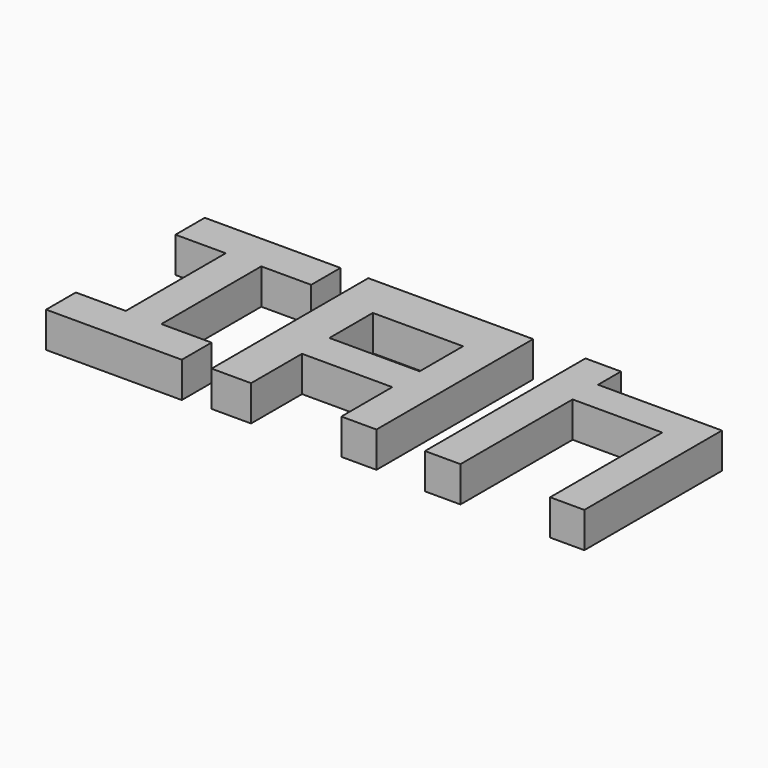
from build123d import *

# Parameters (mm, degrees)
F0_W     = 12.7005800605
F0_H     = 10.2500505745
F0_H_2   = 11.3675412722
F0_H_3   = 50.1337680034
F0_W_2   = 12.241974473
F1_DEPTH = 12.7
F0_W_3   = 14.1233932227
F0_H_4   = 12.2422706336
F0_W_4   = 12.5713734888
F0_H_5   = 22.7828882635
F0_W_5   = 32.2820437141
F0_W_6   = 12.7265676856
F0_H_6   = 44.66532683


with BuildPart() as f1:
    # F0 (on Top) → F1 (new body)
    with BuildSketch(Plane.XY):
        with Locations((42.8348556161, 22.4678125232)):
            Rectangle(F0_W, F0_H)
        with Locations((42.8348556161, 11.6590165999)):
            Rectangle(F0_W, F0_H_2)
        Polygon((93.489408493, 17.342787236), (49.1851456463, 17.342787236), (49.1851456463, 5.9752459638), (81.24743402, 5.9752459638), (93.489408493, 5.9752459638), align=None)
        with Locations((42.8348556161, -19.0916380379)):
            Rectangle(F0_W, F0_H_3)
        with Locations((87.3684212565, -19.0916380379)):
            Rectangle(F0_W_2, F0_H_3)
    extrude(amount=F1_DEPTH)


with BuildPart() as f1b:
    # F0 (on Top) → F1, piece 2 (new body)
    with BuildSketch(Plane.XY):
        Polygon((17.7800580859, 27.5928378105), (-41.1967523396, 27.5928378105), (-41.1967523396, -7.4323210865), (-27.0733591169, -7.4323210865), (-27.0733591169, 11.9729917496), (5.2086845972, 11.9729917496), (5.2086845972, -7.4323210865), (17.7800580859, -7.4323210865), align=None)
        with Locations((-34.1350557283, -13.5534564033)):
            Rectangle(F0_W_3, F0_H_4)
        with Locations((11.4943713415, -13.5534564033)):
            Rectangle(F0_W_4, F0_H_4)
        with Locations((-34.1350557283, -31.0660358518)):
            Rectangle(F0_W_3, F0_H_5)
        with Locations((-10.9323372599, -13.5534564033)):
            Rectangle(F0_W_5, F0_H_4)
        with Locations((11.4943713415, -31.0660358518)):
            Rectangle(F0_W_4, F0_H_5)
    extrude(amount=F1_DEPTH)


with BuildPart() as f1c:
    # F0 (on Top) → F1, piece 3 (new body)
    with BuildSketch(Plane.XY):
        Polygon((-51.1251911521, 27.5928378105), (-99.6664389968, 27.5928378105), (-99.6664389968, 14.4885461777), (-81.7045047879, 14.4885461777), (-68.9779371023, 14.4885461777), (-51.1251911521, 14.4885461777), align=None)
        with Locations((-75.3412209451, -7.8441172373)):
            Rectangle(F0_W_6, F0_H_6)
        Polygon((-68.9779371023, -30.1767806523), (-81.7045047879, -30.1767806523), (-99.5741523802, -30.1767806523), (-99.5741523802, -43.4656389989), (-51.0329045355, -43.4656389989), (-51.0329045355, -30.1767806523), align=None)
    extrude(amount=F1_DEPTH)


solid = Compound([f1.part, f1b.part, f1c.part])
